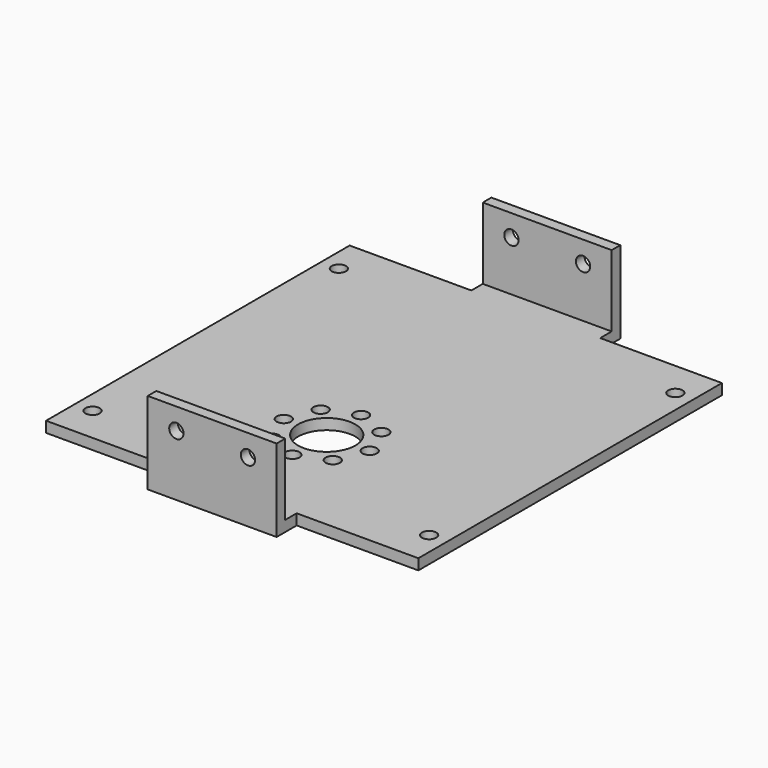
from build123d import *

# Parameters (mm, degrees)
F0_W     = 18
F0_H     = 60
F0_R     = 1
F0_R_2   = 4
F1_DEPTH = 1.5
F2_W     = 18
F2_H     = 1.5
F3_DEPTH = 10
F4_R     = 1
F5_DEPTH = 60.001
F6_W     = 53
F6_H     = 1.5
F7_DEPTH = 17
F8_R     = 1
F9_DEPTH = 1.5


with BuildPart() as f1:
    # F0 (on Top) → F1 (new body)
    with BuildSketch(Plane.XY):
        with Locations((0, 10)):
            Rectangle(F0_W, F0_H)
        with Locations((-6, 0)):
            Circle(F0_R, mode=Mode.SUBTRACT)
        with Locations((-4.242641, -4.242641)):
            Circle(F0_R, mode=Mode.SUBTRACT)
        with Locations((-4.242641, 4.242641)):
            Circle(F0_R, mode=Mode.SUBTRACT)
        with Locations((0, -6)):
            Circle(F0_R, mode=Mode.SUBTRACT)
        Circle(F0_R_2, mode=Mode.SUBTRACT)
        with Locations((4.242641, -4.242641)):
            Circle(F0_R, mode=Mode.SUBTRACT)
        with Locations((0, 6)):
            Circle(F0_R, mode=Mode.SUBTRACT)
        with Locations((4.242641, 4.242641)):
            Circle(F0_R, mode=Mode.SUBTRACT)
        with Locations((6, 0)):
            Circle(F0_R, mode=Mode.SUBTRACT)
    extrude(amount=F1_DEPTH)

    # F2 (on face) → F3 (join)
    with BuildSketch(Plane.XY.offset(1.5)):
        with Locations((0, 39.25)):
            Rectangle(F2_W, F2_H)
        with Locations((0, -19.25)):
            Rectangle(F2_W, F2_H)
    extrude(amount=F3_DEPTH)

    # F4 (on face) → F5 (cut, through all)
    with BuildSketch(Plane.XZ.offset(20)):
        with Locations((5, 8.5)):
            Circle(F4_R)
        with Locations((-5, 8.5)):
            Circle(F4_R)
    extrude(amount=-F5_DEPTH, mode=Mode.SUBTRACT)

    # F6 (on face) → F7 (join)
    with BuildSketch(Plane.YZ.offset(9)):
        with Locations((10, 0.75)):
            Rectangle(F6_W, F6_H)
    extrude(amount=F7_DEPTH)

    # F8 (on face) → F9 (cut, through all)
    with BuildSketch(Plane.XY.offset(1.5)):
        with Locations((23.5, 31.5)):
            Circle(F8_R)
        with Locations((23.5, -11.5)):
            Circle(F8_R)
    extrude(amount=-F9_DEPTH, mode=Mode.SUBTRACT)

    # F10: F1 across plane


with BuildPart() as f1_1:
    add(f1.part)
    add(f1.part.mirror(Plane.YZ))


solid = f1_1.part
